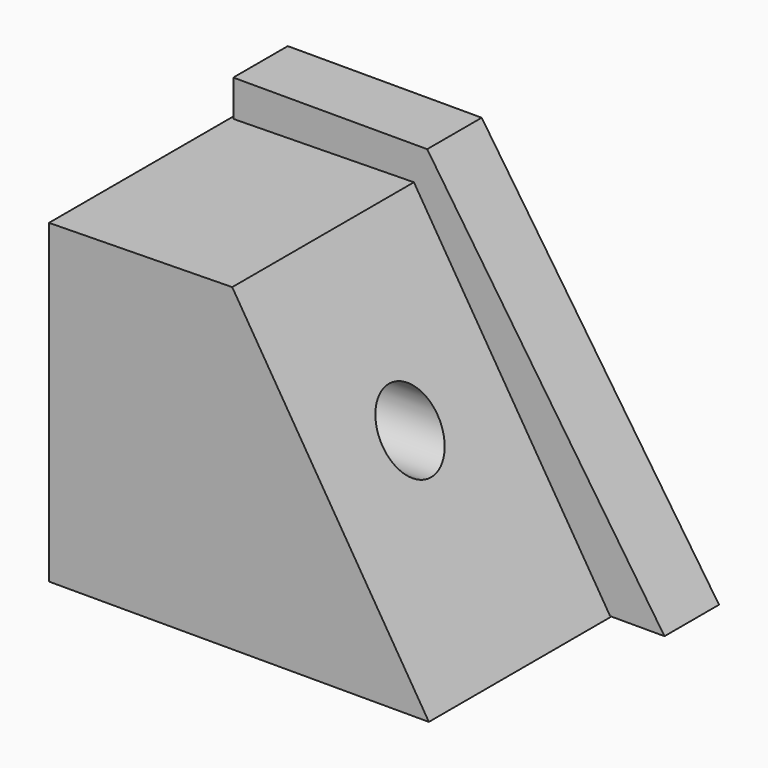
from build123d import *

# Parameters (mm, degrees)
F1_DEPTH = 36.322
F3_DEPTH = 8.382
F4_R     = 4.21986
F5_DEPTH = 46.736


with BuildPart() as f1:
    # F0 (on Front) → F1 (new body)
    with BuildSketch(Plane.XZ):
        Polygon((-14.847217, 24.653712), (-37.392989, 24.287116), (-37.392989, -14.572268), (9.348247, -14.572268), align=None)
    extrude(amount=F1_DEPTH)

    # F2 (on Front) → F3 (join)
    with BuildSketch(Plane.XZ):
        Polygon((-37.069924, 28.770359), (-37.069924, 24.735801), (-36.900819, -14.487034), (9.12904, -14.487034), (15.986776, -14.487034), (-13.213245, 28.770359), align=None)
    extrude(amount=F3_DEPTH)

    # F4 (on Right) → F5 (cut)
    with BuildSketch(Plane.YZ):
        with Locations((-22.545774, 7.057011)):
            Circle(F4_R)
    extrude(amount=-F5_DEPTH, mode=Mode.SUBTRACT)


solid = f1.part
